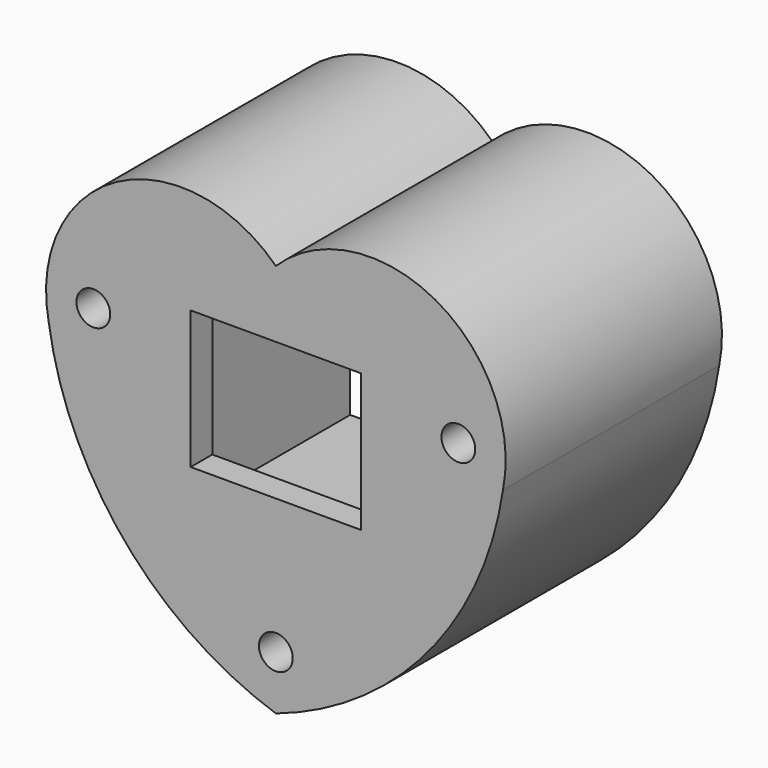
from build123d import *

# Parameters (mm, degrees)
F1_DEPTH = 25.4
F2_W     = 16.002
F2_H     = 12.954
F3_DEPTH = 25.401
F4_W     = 26.67
F4_H     = 26.67
F5_DEPTH = 22.86
F6_R     = 1.5875
F7_DEPTH = 25.401


with BuildPart() as f1:
    # F0 (on Front) → F1 (new body)
    with BuildSketch(Plane.XZ):
        with BuildLine():
            ThreePointArc((0, -19.05), (14.247427, -9.357442), (21.333408, 6.35))
            ThreePointArc((21.333408, 6.35), (14.960623, 20.045157), (0, 17.959614))
            ThreePointArc((0, 17.959614), (-14.960623, 20.045157), (-21.333408, 6.35))
            ThreePointArc((-21.333408, 6.35), (-14.247427, -9.357442), (0, -19.05))
        make_face()
    extrude(amount=F1_DEPTH)

    # F2 (on face) → F3 (cut, through all)
    with BuildSketch(Plane.XZ.offset(25.4)):
        with Locations((0, 5.207)):
            Rectangle(F2_W, F2_H)
    extrude(amount=-F3_DEPTH, mode=Mode.SUBTRACT)

    # F4 (on face) → F5 (cut)
    with BuildSketch(Plane(origin=(0, 0, 0), x_dir=(-1, 0, 0), z_dir=(0, 1, 0))):
        with Locations((0, 4.318)):
            Rectangle(F4_W, F4_H)
    extrude(amount=-F5_DEPTH, mode=Mode.SUBTRACT)

    # F6 (on face) → F7 (cut, through all)
    with BuildSketch(Plane(origin=(0, 0, 0), x_dir=(-1, 0, 0), z_dir=(0, 1, 0))):
        with Locations((-17.145, 8.89)):
            Circle(F6_R)
        with Locations((17.145, 8.89)):
            Circle(F6_R)
        with Locations((0, -13.97)):
            Circle(F6_R)
    extrude(amount=-F7_DEPTH, mode=Mode.SUBTRACT)


solid = f1.part
